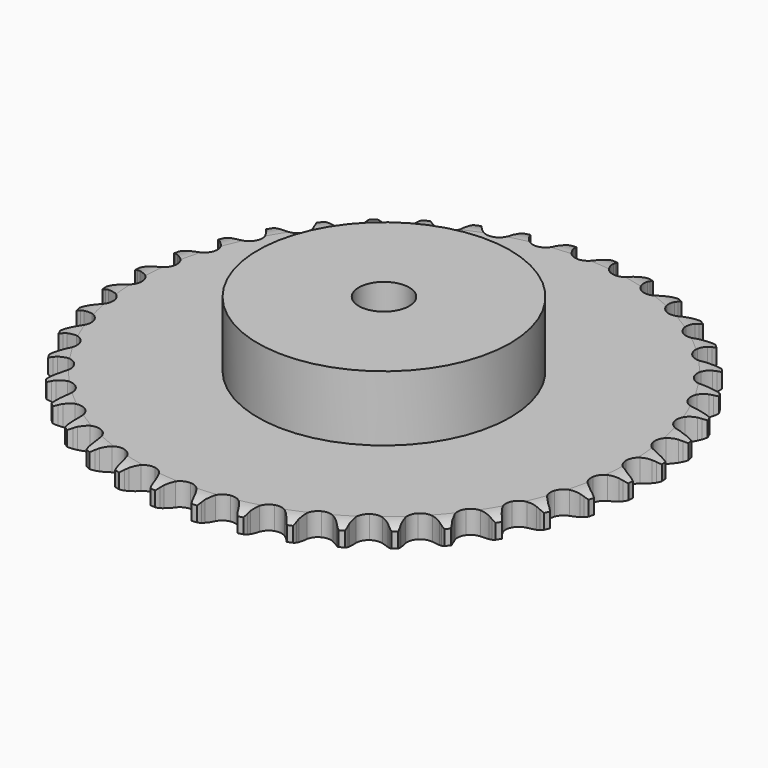
from build123d import *

# Parameters (mm, degrees)
PAD_DEPTH         = 9.1
SKETCH001_R       = 50
PAD001_DEPTH      = 35
SKETCH002_R       = 10
POCKET_DEPTH      = 0.001
POCKET_DEPTH_BACK = 35.001


with BuildPart() as part:
    # Sprocket → Pad (new body)
    with BuildSketch(Plane.XY):
        with BuildLine():
            ThreePointArc((-8.329899, 105.841401), (-7.222908, 104.449857), (-6.440604, 102.85304))
            Line((-6.440604, 102.85304), (-5.945285, 101.484738))
            ThreePointArc((-5.945285, 101.484738), (-5.16247, 99.730627), (-4.134638, 98.107894))
            ThreePointArc((-4.134638, 98.107894), (-2.315081, 96.574328), (0, 96.023865))
            ThreePointArc((0, 96.023865), (2.315081, 96.574328), (4.134638, 98.107894))
            ThreePointArc((4.134638, 98.107894), (5.16247, 99.730627), (5.945285, 101.484738))
            Line((5.945285, 101.484738), (6.440604, 102.85304))
            ThreePointArc((6.440604, 102.85304), (7.222908, 104.449857), (8.329899, 105.841401))
            ThreePointArc((8.329899, 105.841401), (9.205576, 104.293818), (9.728451, 102.594281))
            Line((9.728451, 102.594281), (10.003622, 101.16534))
            ThreePointArc((10.003622, 101.16534), (10.502396, 99.310366), (11.263722, 97.546823))
            ThreePointArc((11.263722, 97.546823), (12.820975, 95.747496), (15.021442, 94.841652))
            ThreePointArc((15.021442, 94.841652), (17.394132, 95.023179), (19.431189, 96.253223))
            Line((19.431189, 96.253223), (21.7478, 99.305245))
            ThreePointArc((21.7478, 99.305245), (22.081961, 99.951877), (22.45107, 100.579216))
            ThreePointArc((22.45107, 100.579216), (23.473539, 102.033995), (24.784587, 103.235234))
            ThreePointArc((24.784587, 103.235234), (25.407388, 101.569719), (25.657959, 99.80931))
            Line((25.657959, 99.80931), (25.706206, 98.354915))
            ThreePointArc((25.706206, 98.354915), (25.908658, 96.444754), (26.384732, 94.583826))
            ThreePointArc((26.384732, 94.583826), (27.641335, 92.563044), (29.673006, 91.324123))
            ThreePointArc((29.673006, 91.324123), (32.044882, 91.132245), (34.249281, 92.028479))
            Line((34.249281, 92.028479), (37.014811, 94.680527))
            ThreePointArc((37.014811, 94.680527), (37.446013, 95.266924), (37.908716, 95.828798))
            ThreePointArc((37.908716, 95.828798), (39.146174, 97.105716), (40.628996, 98.087074))
            ThreePointArc((40.628996, 98.087074), (40.983585, 96.344636), (40.955683, 94.566703))
            Line((40.955683, 94.566703), (40.775819, 93.122666))
            ThreePointArc((40.775819, 93.122666), (40.676963, 91.204352), (40.856063, 89.29186))
            ThreePointArc((40.856063, 89.29186), (41.781075, 87.099381), (43.593923, 85.55789))
            ThreePointArc((43.593923, 85.55789), (45.90658, 84.997331), (48.224041, 85.537688))
            Line((48.224041, 85.537688), (51.370395, 87.72446))
            ThreePointArc((51.370395, 87.72446), (51.888021, 88.236183), (52.432923, 88.718757))
            ThreePointArc((52.432923, 88.718757), (53.854901, 89.786373), (55.472985, 90.523684))
            ThreePointArc((55.472985, 90.523684), (55.550631, 88.747228), (55.244942, 86.99555))
            Line((55.244942, 86.99555), (54.841395, 85.597429))
            ThreePointArc((54.841395, 85.597429), (54.443666, 83.718196), (54.321381, 81.801233))
            ThreePointArc((54.321381, 81.801233), (54.892026, 79.491043), (56.441412, 77.684939))
            ThreePointArc((56.441412, 77.684939), (58.637906, 76.769502), (61.011366, 76.940675))
            Line((61.011366, 76.940675), (64.461069, 78.608326))
            ThreePointArc((64.461069, 78.608326), (65.052373, 79.032774), (65.666058, 79.424166))
            ThreePointArc((65.666058, 79.424166), (67.237541, 80.256191), (68.951044, 80.7313))
            ThreePointArc((68.951044, 80.7313), (68.749835, 78.964569), (68.173888, 77.282277))
            Line((68.173888, 77.282277), (67.556595, 75.964498))
            ThreePointArc((67.556595, 75.964498), (66.869785, 74.170621), (66.449127, 72.296388))
            ThreePointArc((66.449127, 72.296388), (66.651353, 69.925372), (67.899126, 67.899126))
            ThreePointArc((67.899126, 67.899126), (69.925372, 66.651353), (72.296388, 66.449127))
            Line((72.296388, 66.449127), (75.964498, 67.556595))
            ThreePointArc((75.964498, 67.556595), (76.61492, 67.883316), (77.282277, 68.173888))
            ThreePointArc((77.282277, 68.173888), (78.964569, 68.749835), (80.7313, 68.951044))
            ThreePointArc((80.7313, 68.951044), (80.256191, 67.237541), (79.424166, 65.666058))
            Line((79.424166, 65.666058), (78.608326, 64.461069))
            ThreePointArc((78.608326, 64.461069), (77.649349, 62.796718), (76.940675, 61.011366))
            ThreePointArc((76.940675, 61.011366), (76.769502, 58.637906), (77.684939, 56.441412))
            ThreePointArc((77.684939, 56.441412), (79.491043, 54.892026), (81.801233, 54.321381))
            Line((81.801233, 54.321381), (85.597429, 54.841395))
            ThreePointArc((85.597429, 54.841395), (86.290954, 55.062346), (86.99555, 55.244942))
            ThreePointArc((86.99555, 55.244942), (88.747228, 55.550631), (90.523684, 55.472985))
            ThreePointArc((90.523684, 55.472985), (89.786373, 53.854901), (88.718757, 52.432923))
            Line((88.718757, 52.432923), (87.72446, 51.370395))
            ThreePointArc((87.72446, 51.370395), (86.516927, 49.876552), (85.537688, 48.224041))
            ThreePointArc((85.537688, 48.224041), (84.997331, 45.90658), (85.55789, 43.593923))
            ThreePointArc((85.55789, 43.593923), (87.099381, 41.781075), (89.29186, 40.856063))
            Line((89.29186, 40.856063), (93.122666, 40.775819))
            ThreePointArc((93.122666, 40.775819), (93.842218, 40.885558), (94.566703, 40.955683))
            ThreePointArc((94.566703, 40.955683), (96.344636, 40.983585), (98.087074, 40.628996))
            ThreePointArc((98.087074, 40.628996), (97.105716, 39.146174), (95.828798, 37.908716))
            Line((95.828798, 37.908716), (94.680527, 37.014811))
            ThreePointArc((94.680527, 37.014811), (93.254172, 35.72826), (92.028479, 34.249281))
            ThreePointArc((92.028479, 34.249281), (91.132245, 32.044882), (91.324123, 29.673006))
            ThreePointArc((91.324123, 29.673006), (92.563044, 27.641335), (94.583826, 26.384732))
            Line((94.583826, 26.384732), (98.354915, 25.706206))
            ThreePointArc((98.354915, 25.706206), (99.082775, 25.702032), (99.80931, 25.657959))
            ThreePointArc((99.80931, 25.657959), (101.569719, 25.407388), (103.235234, 24.784587))
            ThreePointArc((103.235234, 24.784587), (102.033995, 23.473539), (100.579216, 22.45107))
            Line((100.579216, 22.45107), (99.305245, 21.7478))
            ThreePointArc((99.305245, 21.7478), (97.69519, 20.700219), (96.253223, 19.431189))
            ThreePointArc((96.253223, 19.431189), (95.023179, 17.394132), (94.841652, 15.021442))
            ThreePointArc((94.841652, 15.021442), (95.747496, 12.820975), (97.546823, 11.263722))
            Line((97.546823, 11.263722), (101.16534, 10.003622))
            ThreePointArc((101.16534, 10.003622), (101.883585, 9.885636), (102.594281, 9.728451))
            ThreePointArc((102.594281, 9.728451), (104.293818, 9.205576), (105.841401, 8.329899))
            ThreePointArc((105.841401, 8.329899), (104.449857, 7.222908), (102.85304, 6.440604))
            Line((102.85304, 6.440604), (101.484738, 5.945285))
            ThreePointArc((101.484738, 5.945285), (99.730627, 5.16247), (98.107894, 4.134638))
            ThreePointArc((98.107894, 4.134638), (96.574328, 2.315081), (96.023865, 0))
            ThreePointArc((96.023865, 0), (96.574328, -2.315081), (98.107894, -4.134638))
            Line((98.107894, -4.134638), (101.484738, -5.945285))
            ThreePointArc((101.484738, -5.945285), (102.175683, -6.174177), (102.85304, -6.440604))
            ThreePointArc((102.85304, -6.440604), (104.449857, -7.222908), (105.841401, -8.329899))
            ThreePointArc((105.841401, -8.329899), (104.293818, -9.205576), (102.594281, -9.728451))
            Line((102.594281, -9.728451), (101.16534, -10.003622))
            ThreePointArc((101.16534, -10.003622), (99.310366, -10.502396), (97.546823, -11.263722))
            ThreePointArc((97.546823, -11.263722), (95.747496, -12.820975), (94.841652, -15.021442))
            ThreePointArc((94.841652, -15.021442), (95.023179, -17.394132), (96.253223, -19.431189))
            Line((96.253223, -19.431189), (99.305245, -21.7478))
            ThreePointArc((99.305245, -21.7478), (99.951877, -22.081961), (100.579216, -22.45107))
            ThreePointArc((100.579216, -22.45107), (102.033995, -23.473539), (103.235234, -24.784587))
            ThreePointArc((103.235234, -24.784587), (101.569719, -25.407388), (99.80931, -25.657959))
            Line((99.80931, -25.657959), (98.354915, -25.706206))
            ThreePointArc((98.354915, -25.706206), (96.444754, -25.908658), (94.583826, -26.384732))
            ThreePointArc((94.583826, -26.384732), (92.563044, -27.641335), (91.324123, -29.673006))
            ThreePointArc((91.324123, -29.673006), (91.132245, -32.044882), (92.028479, -34.249281))
            Line((92.028479, -34.249281), (94.680527, -37.014811))
            ThreePointArc((94.680527, -37.014811), (95.266924, -37.446013), (95.828798, -37.908716))
            ThreePointArc((95.828798, -37.908716), (97.105716, -39.146174), (98.087074, -40.628996))
            ThreePointArc((98.087074, -40.628996), (96.344636, -40.983585), (94.566703, -40.955683))
            Line((94.566703, -40.955683), (93.122666, -40.775819))
            ThreePointArc((93.122666, -40.775819), (91.204352, -40.676963), (89.29186, -40.856063))
            ThreePointArc((89.29186, -40.856063), (87.099381, -41.781075), (85.55789, -43.593923))
            ThreePointArc((85.55789, -43.593923), (84.997331, -45.90658), (85.537688, -48.224041))
            Line((85.537688, -48.224041), (87.72446, -51.370395))
            ThreePointArc((87.72446, -51.370395), (88.236183, -51.888021), (88.718757, -52.432923))
            ThreePointArc((88.718757, -52.432923), (89.786373, -53.854901), (90.523684, -55.472985))
            ThreePointArc((90.523684, -55.472985), (88.747228, -55.550631), (86.99555, -55.244942))
            Line((86.99555, -55.244942), (85.597429, -54.841395))
            ThreePointArc((85.597429, -54.841395), (83.718196, -54.443666), (81.801233, -54.321381))
            ThreePointArc((81.801233, -54.321381), (79.491043, -54.892026), (77.684939, -56.441412))
            ThreePointArc((77.684939, -56.441412), (76.769502, -58.637906), (76.940675, -61.011366))
            Line((76.940675, -61.011366), (78.608326, -64.461069))
            ThreePointArc((78.608326, -64.461069), (79.032774, -65.052373), (79.424166, -65.666058))
            ThreePointArc((79.424166, -65.666058), (80.256191, -67.237541), (80.7313, -68.951044))
            ThreePointArc((80.7313, -68.951044), (78.964569, -68.749835), (77.282277, -68.173888))
            Line((77.282277, -68.173888), (75.964498, -67.556595))
            ThreePointArc((75.964498, -67.556595), (74.170621, -66.869785), (72.296388, -66.449127))
            ThreePointArc((72.296388, -66.449127), (69.925372, -66.651353), (67.899126, -67.899126))
            ThreePointArc((67.899126, -67.899126), (66.651353, -69.925372), (66.449127, -72.296388))
            Line((66.449127, -72.296388), (67.556595, -75.964498))
            ThreePointArc((67.556595, -75.964498), (67.883316, -76.61492), (68.173888, -77.282277))
            ThreePointArc((68.173888, -77.282277), (68.749835, -78.964569), (68.951044, -80.7313))
            ThreePointArc((68.951044, -80.7313), (67.237541, -80.256191), (65.666058, -79.424166))
            Line((65.666058, -79.424166), (64.461069, -78.608326))
            ThreePointArc((64.461069, -78.608326), (62.796718, -77.649349), (61.011366, -76.940675))
            ThreePointArc((61.011366, -76.940675), (58.637906, -76.769502), (56.441412, -77.684939))
            ThreePointArc((56.441412, -77.684939), (54.892026, -79.491043), (54.321381, -81.801233))
            Line((54.321381, -81.801233), (54.841395, -85.597429))
            ThreePointArc((54.841395, -85.597429), (55.062346, -86.290954), (55.244942, -86.99555))
            ThreePointArc((55.244942, -86.99555), (55.550631, -88.747228), (55.472985, -90.523684))
            ThreePointArc((55.472985, -90.523684), (53.854901, -89.786373), (52.432923, -88.718757))
            Line((52.432923, -88.718757), (51.370395, -87.72446))
            ThreePointArc((51.370395, -87.72446), (49.876552, -86.516927), (48.224041, -85.537688))
            ThreePointArc((48.224041, -85.537688), (45.90658, -84.997331), (43.593923, -85.55789))
            ThreePointArc((43.593923, -85.55789), (41.781075, -87.099381), (40.856063, -89.29186))
            Line((40.856063, -89.29186), (40.775819, -93.122666))
            ThreePointArc((40.775819, -93.122666), (40.885558, -93.842218), (40.955683, -94.566703))
            ThreePointArc((40.955683, -94.566703), (40.983585, -96.344636), (40.628996, -98.087074))
            ThreePointArc((40.628996, -98.087074), (39.146174, -97.105716), (37.908716, -95.828798))
            Line((37.908716, -95.828798), (37.014811, -94.680527))
            ThreePointArc((37.014811, -94.680527), (35.72826, -93.254172), (34.249281, -92.028479))
            ThreePointArc((34.249281, -92.028479), (32.044882, -91.132245), (29.673006, -91.324123))
            ThreePointArc((29.673006, -91.324123), (27.641335, -92.563044), (26.384732, -94.583826))
            Line((26.384732, -94.583826), (25.706206, -98.354915))
            ThreePointArc((25.706206, -98.354915), (25.702032, -99.082775), (25.657959, -99.80931))
            ThreePointArc((25.657959, -99.80931), (25.407388, -101.569719), (24.784587, -103.235234))
            ThreePointArc((24.784587, -103.235234), (23.473539, -102.033995), (22.45107, -100.579216))
            Line((22.45107, -100.579216), (21.7478, -99.305245))
            ThreePointArc((21.7478, -99.305245), (20.700219, -97.69519), (19.431189, -96.253223))
            ThreePointArc((19.431189, -96.253223), (17.394132, -95.023179), (15.021442, -94.841652))
            ThreePointArc((15.021442, -94.841652), (12.820975, -95.747496), (11.263722, -97.546823))
            Line((11.263722, -97.546823), (10.003622, -101.16534))
            ThreePointArc((10.003622, -101.16534), (9.885636, -101.883585), (9.728451, -102.594281))
            ThreePointArc((9.728451, -102.594281), (9.205576, -104.293818), (8.329899, -105.841401))
            ThreePointArc((8.329899, -105.841401), (7.222908, -104.449857), (6.440604, -102.85304))
            Line((6.440604, -102.85304), (5.945285, -101.484738))
            ThreePointArc((5.945285, -101.484738), (5.16247, -99.730627), (4.134638, -98.107894))
            ThreePointArc((4.134638, -98.107894), (2.315081, -96.574328), (0, -96.023865))
            ThreePointArc((0, -96.023865), (-2.315081, -96.574328), (-4.134638, -98.107894))
            Line((-4.134638, -98.107894), (-5.945285, -101.484738))
            ThreePointArc((-5.945285, -101.484738), (-6.174177, -102.175683), (-6.440604, -102.85304))
            ThreePointArc((-6.440604, -102.85304), (-7.222908, -104.449857), (-8.329899, -105.841401))
            ThreePointArc((-8.329899, -105.841401), (-9.205576, -104.293818), (-9.728451, -102.594281))
            Line((-9.728451, -102.594281), (-10.003622, -101.16534))
            ThreePointArc((-10.003622, -101.16534), (-10.502396, -99.310366), (-11.263722, -97.546823))
            ThreePointArc((-11.263722, -97.546823), (-12.820975, -95.747496), (-15.021442, -94.841652))
            ThreePointArc((-15.021442, -94.841652), (-17.394132, -95.023179), (-19.431189, -96.253223))
            Line((-19.431189, -96.253223), (-21.7478, -99.305245))
            ThreePointArc((-21.7478, -99.305245), (-22.081961, -99.951877), (-22.45107, -100.579216))
            ThreePointArc((-22.45107, -100.579216), (-23.473539, -102.033995), (-24.784587, -103.235234))
            ThreePointArc((-24.784587, -103.235234), (-25.407388, -101.569719), (-25.657959, -99.80931))
            Line((-25.657959, -99.80931), (-25.706206, -98.354915))
            ThreePointArc((-25.706206, -98.354915), (-25.908658, -96.444754), (-26.384732, -94.583826))
            ThreePointArc((-26.384732, -94.583826), (-27.641335, -92.563044), (-29.673006, -91.324123))
            ThreePointArc((-29.673006, -91.324123), (-32.044882, -91.132245), (-34.249281, -92.028479))
            Line((-34.249281, -92.028479), (-37.014811, -94.680527))
            ThreePointArc((-37.014811, -94.680527), (-37.446013, -95.266924), (-37.908716, -95.828798))
            ThreePointArc((-37.908716, -95.828798), (-39.146174, -97.105716), (-40.628996, -98.087074))
            ThreePointArc((-40.628996, -98.087074), (-40.983585, -96.344636), (-40.955683, -94.566703))
            Line((-40.955683, -94.566703), (-40.775819, -93.122666))
            ThreePointArc((-40.775819, -93.122666), (-40.676963, -91.204352), (-40.856063, -89.29186))
            ThreePointArc((-40.856063, -89.29186), (-41.781075, -87.099381), (-43.593923, -85.55789))
            ThreePointArc((-43.593923, -85.55789), (-45.90658, -84.997331), (-48.224041, -85.537688))
            Line((-48.224041, -85.537688), (-51.370395, -87.72446))
            ThreePointArc((-51.370395, -87.72446), (-51.888021, -88.236183), (-52.432923, -88.718757))
            ThreePointArc((-52.432923, -88.718757), (-53.854901, -89.786373), (-55.472985, -90.523684))
            ThreePointArc((-55.472985, -90.523684), (-55.550631, -88.747228), (-55.244942, -86.99555))
            Line((-55.244942, -86.99555), (-54.841395, -85.597429))
            ThreePointArc((-54.841395, -85.597429), (-54.443666, -83.718196), (-54.321381, -81.801233))
            ThreePointArc((-54.321381, -81.801233), (-54.892026, -79.491043), (-56.441412, -77.684939))
            ThreePointArc((-56.441412, -77.684939), (-58.637906, -76.769502), (-61.011366, -76.940675))
            Line((-61.011366, -76.940675), (-64.461069, -78.608326))
            ThreePointArc((-64.461069, -78.608326), (-65.052373, -79.032774), (-65.666058, -79.424166))
            ThreePointArc((-65.666058, -79.424166), (-67.237541, -80.256191), (-68.951044, -80.7313))
            ThreePointArc((-68.951044, -80.7313), (-68.749835, -78.964569), (-68.173888, -77.282277))
            Line((-68.173888, -77.282277), (-67.556595, -75.964498))
            ThreePointArc((-67.556595, -75.964498), (-66.869785, -74.170621), (-66.449127, -72.296388))
            ThreePointArc((-66.449127, -72.296388), (-66.651353, -69.925372), (-67.899126, -67.899126))
            ThreePointArc((-67.899126, -67.899126), (-69.925372, -66.651353), (-72.296388, -66.449127))
            Line((-72.296388, -66.449127), (-75.964498, -67.556595))
            ThreePointArc((-75.964498, -67.556595), (-76.61492, -67.883316), (-77.282277, -68.173888))
            ThreePointArc((-77.282277, -68.173888), (-78.964569, -68.749835), (-80.7313, -68.951044))
            ThreePointArc((-80.7313, -68.951044), (-80.256191, -67.237541), (-79.424166, -65.666058))
            Line((-79.424166, -65.666058), (-78.608326, -64.461069))
            ThreePointArc((-78.608326, -64.461069), (-77.649349, -62.796718), (-76.940675, -61.011366))
            ThreePointArc((-76.940675, -61.011366), (-76.769502, -58.637906), (-77.684939, -56.441412))
            ThreePointArc((-77.684939, -56.441412), (-79.491043, -54.892026), (-81.801233, -54.321381))
            Line((-81.801233, -54.321381), (-85.597429, -54.841395))
            ThreePointArc((-85.597429, -54.841395), (-86.290954, -55.062346), (-86.99555, -55.244942))
            ThreePointArc((-86.99555, -55.244942), (-88.747228, -55.550631), (-90.523684, -55.472985))
            ThreePointArc((-90.523684, -55.472985), (-89.786373, -53.854901), (-88.718757, -52.432923))
            Line((-88.718757, -52.432923), (-87.72446, -51.370395))
            ThreePointArc((-87.72446, -51.370395), (-86.516927, -49.876552), (-85.537688, -48.224041))
            ThreePointArc((-85.537688, -48.224041), (-84.997331, -45.90658), (-85.55789, -43.593923))
            ThreePointArc((-85.55789, -43.593923), (-87.099381, -41.781075), (-89.29186, -40.856063))
            Line((-89.29186, -40.856063), (-93.122666, -40.775819))
            ThreePointArc((-93.122666, -40.775819), (-93.842218, -40.885558), (-94.566703, -40.955683))
            ThreePointArc((-94.566703, -40.955683), (-96.344636, -40.983585), (-98.087074, -40.628996))
            ThreePointArc((-98.087074, -40.628996), (-97.105716, -39.146174), (-95.828798, -37.908716))
            Line((-95.828798, -37.908716), (-94.680527, -37.014811))
            ThreePointArc((-94.680527, -37.014811), (-93.254172, -35.72826), (-92.028479, -34.249281))
            ThreePointArc((-92.028479, -34.249281), (-91.132245, -32.044882), (-91.324123, -29.673006))
            ThreePointArc((-91.324123, -29.673006), (-92.563044, -27.641335), (-94.583826, -26.384732))
            Line((-94.583826, -26.384732), (-98.354915, -25.706206))
            ThreePointArc((-98.354915, -25.706206), (-99.082775, -25.702032), (-99.80931, -25.657959))
            ThreePointArc((-99.80931, -25.657959), (-101.569719, -25.407388), (-103.235234, -24.784587))
            ThreePointArc((-103.235234, -24.784587), (-102.033995, -23.473539), (-100.579216, -22.45107))
            Line((-100.579216, -22.45107), (-99.305245, -21.7478))
            ThreePointArc((-99.305245, -21.7478), (-97.69519, -20.700219), (-96.253223, -19.431189))
            ThreePointArc((-96.253223, -19.431189), (-95.023179, -17.394132), (-94.841652, -15.021442))
            ThreePointArc((-94.841652, -15.021442), (-95.747496, -12.820975), (-97.546823, -11.263722))
            Line((-97.546823, -11.263722), (-101.16534, -10.003622))
            ThreePointArc((-101.16534, -10.003622), (-101.883585, -9.885636), (-102.594281, -9.728451))
            ThreePointArc((-102.594281, -9.728451), (-104.293818, -9.205576), (-105.841401, -8.329899))
            ThreePointArc((-105.841401, -8.329899), (-104.449857, -7.222908), (-102.85304, -6.440604))
            Line((-102.85304, -6.440604), (-101.484738, -5.945285))
            ThreePointArc((-101.484738, -5.945285), (-99.730627, -5.16247), (-98.107894, -4.134638))
            ThreePointArc((-98.107894, -4.134638), (-96.574328, -2.315081), (-96.023865, 0))
            ThreePointArc((-96.023865, 0), (-96.574328, 2.315081), (-98.107894, 4.134638))
            Line((-98.107894, 4.134638), (-101.484738, 5.945285))
            ThreePointArc((-101.484738, 5.945285), (-102.175683, 6.174177), (-102.85304, 6.440604))
            ThreePointArc((-102.85304, 6.440604), (-104.449857, 7.222908), (-105.841401, 8.329899))
            ThreePointArc((-105.841401, 8.329899), (-104.293818, 9.205576), (-102.594281, 9.728451))
            Line((-102.594281, 9.728451), (-101.16534, 10.003622))
            ThreePointArc((-101.16534, 10.003622), (-99.310366, 10.502396), (-97.546823, 11.263722))
            ThreePointArc((-97.546823, 11.263722), (-95.747496, 12.820975), (-94.841652, 15.021442))
            ThreePointArc((-94.841652, 15.021442), (-95.023179, 17.394132), (-96.253223, 19.431189))
            Line((-96.253223, 19.431189), (-99.305245, 21.7478))
            ThreePointArc((-99.305245, 21.7478), (-99.951877, 22.081961), (-100.579216, 22.45107))
            ThreePointArc((-100.579216, 22.45107), (-102.033995, 23.473539), (-103.235234, 24.784587))
            ThreePointArc((-103.235234, 24.784587), (-101.569719, 25.407388), (-99.80931, 25.657959))
            Line((-99.80931, 25.657959), (-98.354915, 25.706206))
            ThreePointArc((-98.354915, 25.706206), (-96.444754, 25.908658), (-94.583826, 26.384732))
            ThreePointArc((-94.583826, 26.384732), (-92.563044, 27.641335), (-91.324123, 29.673006))
            ThreePointArc((-91.324123, 29.673006), (-91.132245, 32.044882), (-92.028479, 34.249281))
            Line((-92.028479, 34.249281), (-94.680527, 37.014811))
            ThreePointArc((-94.680527, 37.014811), (-95.266924, 37.446013), (-95.828798, 37.908716))
            ThreePointArc((-95.828798, 37.908716), (-97.105716, 39.146174), (-98.087074, 40.628996))
            ThreePointArc((-98.087074, 40.628996), (-96.344636, 40.983585), (-94.566703, 40.955683))
            Line((-94.566703, 40.955683), (-93.122666, 40.775819))
            ThreePointArc((-93.122666, 40.775819), (-91.204352, 40.676963), (-89.29186, 40.856063))
            ThreePointArc((-89.29186, 40.856063), (-87.099381, 41.781075), (-85.55789, 43.593923))
            ThreePointArc((-85.55789, 43.593923), (-84.997331, 45.90658), (-85.537688, 48.224041))
            Line((-85.537688, 48.224041), (-87.72446, 51.370395))
            ThreePointArc((-87.72446, 51.370395), (-88.236183, 51.888021), (-88.718757, 52.432923))
            ThreePointArc((-88.718757, 52.432923), (-89.786373, 53.854901), (-90.523684, 55.472985))
            ThreePointArc((-90.523684, 55.472985), (-88.747228, 55.550631), (-86.99555, 55.244942))
            Line((-86.99555, 55.244942), (-85.597429, 54.841395))
            ThreePointArc((-85.597429, 54.841395), (-83.718196, 54.443666), (-81.801233, 54.321381))
            ThreePointArc((-81.801233, 54.321381), (-79.491043, 54.892026), (-77.684939, 56.441412))
            ThreePointArc((-77.684939, 56.441412), (-76.769502, 58.637906), (-76.940675, 61.011366))
            Line((-76.940675, 61.011366), (-78.608326, 64.461069))
            ThreePointArc((-78.608326, 64.461069), (-79.032774, 65.052373), (-79.424166, 65.666058))
            ThreePointArc((-79.424166, 65.666058), (-80.256191, 67.237541), (-80.7313, 68.951044))
            ThreePointArc((-80.7313, 68.951044), (-78.964569, 68.749835), (-77.282277, 68.173888))
            Line((-77.282277, 68.173888), (-75.964498, 67.556595))
            ThreePointArc((-75.964498, 67.556595), (-74.170621, 66.869785), (-72.296388, 66.449127))
            ThreePointArc((-72.296388, 66.449127), (-69.925372, 66.651353), (-67.899126, 67.899126))
            ThreePointArc((-67.899126, 67.899126), (-66.651353, 69.925372), (-66.449127, 72.296388))
            Line((-66.449127, 72.296388), (-67.556595, 75.964498))
            ThreePointArc((-67.556595, 75.964498), (-67.883316, 76.61492), (-68.173888, 77.282277))
            ThreePointArc((-68.173888, 77.282277), (-68.749835, 78.964569), (-68.951044, 80.7313))
            ThreePointArc((-68.951044, 80.7313), (-67.237541, 80.256191), (-65.666058, 79.424166))
            Line((-65.666058, 79.424166), (-64.461069, 78.608326))
            ThreePointArc((-64.461069, 78.608326), (-62.796718, 77.649349), (-61.011366, 76.940675))
            ThreePointArc((-61.011366, 76.940675), (-58.637906, 76.769502), (-56.441412, 77.684939))
            ThreePointArc((-56.441412, 77.684939), (-54.892026, 79.491043), (-54.321381, 81.801233))
            Line((-54.321381, 81.801233), (-54.841395, 85.597429))
            ThreePointArc((-54.841395, 85.597429), (-55.062346, 86.290954), (-55.244942, 86.99555))
            ThreePointArc((-55.244942, 86.99555), (-55.550631, 88.747228), (-55.472985, 90.523684))
            ThreePointArc((-55.472985, 90.523684), (-53.854901, 89.786373), (-52.432923, 88.718757))
            Line((-52.432923, 88.718757), (-51.370395, 87.72446))
            ThreePointArc((-51.370395, 87.72446), (-49.876552, 86.516927), (-48.224041, 85.537688))
            ThreePointArc((-48.224041, 85.537688), (-45.90658, 84.997331), (-43.593923, 85.55789))
            ThreePointArc((-43.593923, 85.55789), (-41.781075, 87.099381), (-40.856063, 89.29186))
            Line((-40.856063, 89.29186), (-40.775819, 93.122666))
            ThreePointArc((-40.775819, 93.122666), (-40.885558, 93.842218), (-40.955683, 94.566703))
            ThreePointArc((-40.955683, 94.566703), (-40.983585, 96.344636), (-40.628996, 98.087074))
            ThreePointArc((-40.628996, 98.087074), (-39.146174, 97.105716), (-37.908716, 95.828798))
            Line((-37.908716, 95.828798), (-37.014811, 94.680527))
            ThreePointArc((-37.014811, 94.680527), (-35.72826, 93.254172), (-34.249281, 92.028479))
            ThreePointArc((-34.249281, 92.028479), (-32.044882, 91.132245), (-29.673006, 91.324123))
            ThreePointArc((-29.673006, 91.324123), (-27.641335, 92.563044), (-26.384732, 94.583826))
            Line((-26.384732, 94.583826), (-25.706206, 98.354915))
            ThreePointArc((-25.706206, 98.354915), (-25.702032, 99.082775), (-25.657959, 99.80931))
            ThreePointArc((-25.657959, 99.80931), (-25.407388, 101.569719), (-24.784587, 103.235234))
            ThreePointArc((-24.784587, 103.235234), (-23.473539, 102.033995), (-22.45107, 100.579216))
            Line((-22.45107, 100.579216), (-21.7478, 99.305245))
            ThreePointArc((-21.7478, 99.305245), (-20.700219, 97.69519), (-19.431189, 96.253223))
            ThreePointArc((-19.431189, 96.253223), (-17.394132, 95.023179), (-15.021442, 94.841652))
            ThreePointArc((-15.021442, 94.841652), (-12.820975, 95.747496), (-11.263722, 97.546823))
            Line((-11.263722, 97.546823), (-10.003622, 101.16534))
            ThreePointArc((-10.003622, 101.16534), (-9.885636, 101.883585), (-9.728451, 102.594281))
            ThreePointArc((-9.728451, 102.594281), (-9.205576, 104.293818), (-8.329899, 105.841401))
        make_face()
    extrude(amount=PAD_DEPTH)

    # Sketch → Groove (revolve, cut)
    with BuildSketch(Plane.XZ):
        with BuildLine():
            Line((97.675762, 0), (104.65, 0))
            Line((111.624238, 0), (104.65, 0))
            Line((111.624238, 9.1), (111.624238, 0))
            Line((104.65, 9.1), (111.624238, 9.1))
            Line((97.675762, 9.1), (104.65, 9.1))
            ThreePointArc((104.65, 7.5), (101.25347, 8.694871), (97.675762, 9.1))
            Line((104.65, 1.6), (104.65, 7.5))
            ThreePointArc((97.675762, 0), (101.25347, 0.405129), (104.65, 1.6))
        make_face()
    revolve(axis=Axis((0, 0, 0), (0, 0, 1)), mode=Mode.SUBTRACT)

    # Sketch001 → Pad001 (join)
    with BuildSketch(Plane.XY):
        Circle(SKETCH001_R)
    extrude(amount=PAD001_DEPTH)

    # Sketch002 → Pocket (cut, two sides)
    with BuildSketch(Plane.XY) as pocket_sk:
        Circle(SKETCH002_R)
    extrude(amount=-POCKET_DEPTH, mode=Mode.SUBTRACT)
    extrude(pocket_sk.sketch, amount=POCKET_DEPTH_BACK, mode=Mode.SUBTRACT)


solid = part.part
